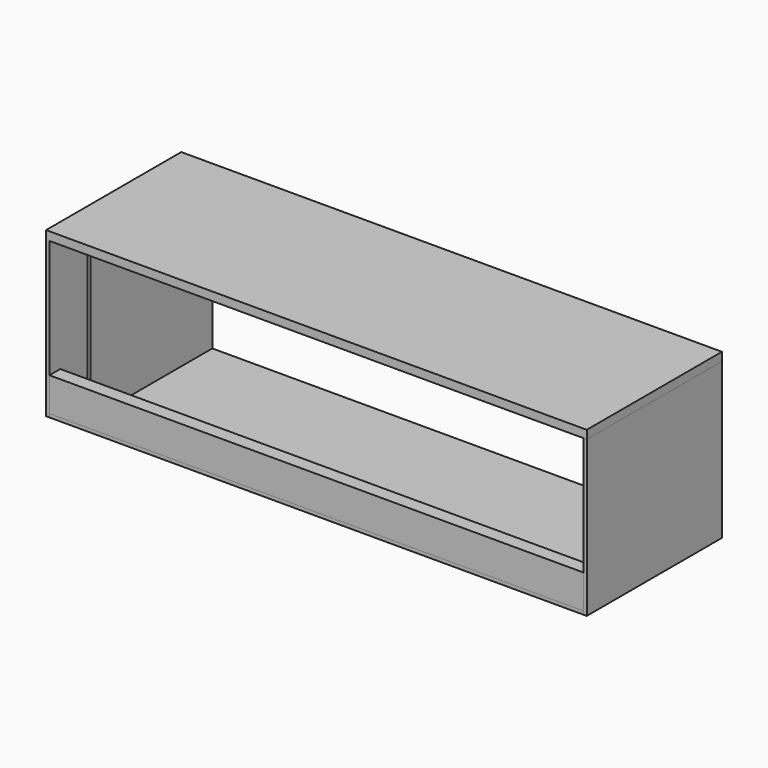
from build123d import *

# Parameters (mm, degrees)
F0_W      = 1600
F0_H      = 500
F1_DEPTH  = 25
F3_W      = 1580
F3_H      = 490
F4_DEPTH  = 10
F5_W      = 10
F5_H      = 500
F6_DEPTH  = 460
F7_W      = 10
F7_H      = 500
F8_DEPTH  = 460
F9_W      = 40
F9_H      = 100
F10_DEPTH = 1580
F11_W     = 10
F11_H     = 450
F12_DEPTH = 450


with BuildPart() as f1:
    # F0 (on Top) → F1 (new body)
    with BuildSketch(Plane.XY):
        with Locations((800, 250)):
            Rectangle(F0_W, F0_H)
    extrude(amount=F1_DEPTH)

    # F5 (on face) → F6 (join, through all)
    with BuildSketch(Plane.XY):
        with Locations((5, 250)):
            Rectangle(F5_W, F5_H)
    extrude(amount=-F6_DEPTH)


with BuildPart() as f4:
    # F3 (on offset) → F4 (new body)
    with BuildSketch(Plane.XY.offset(-460)):
        with Locations((800, 245)):
            Rectangle(F3_W, F3_H)
    extrude(amount=F4_DEPTH)


with BuildPart() as f8:
    # F7 (on face) → F8 (new body, through all)
    with BuildSketch(Plane.XY):
        with Locations((1595, 250)):
            Rectangle(F7_W, F7_H)
    extrude(amount=-F8_DEPTH)


with BuildPart() as f10:
    # F9 (on face) → F10 (new body, through all)
    with BuildSketch(Plane.YZ.offset(10)):
        with Locations((20, -400)):
            Rectangle(F9_W, F9_H)
    extrude(amount=F10_DEPTH)


with BuildPart() as f12:
    # F11 (on face) → F12 (new body, through all)
    with BuildSketch(Plane.XY.offset(-450)):
        with Locations((95, 265)):
            Rectangle(F11_W, F11_H)
    extrude(amount=F12_DEPTH)


solid = Compound([f1.part, f4.part, f8.part, f10.part, f12.part])
